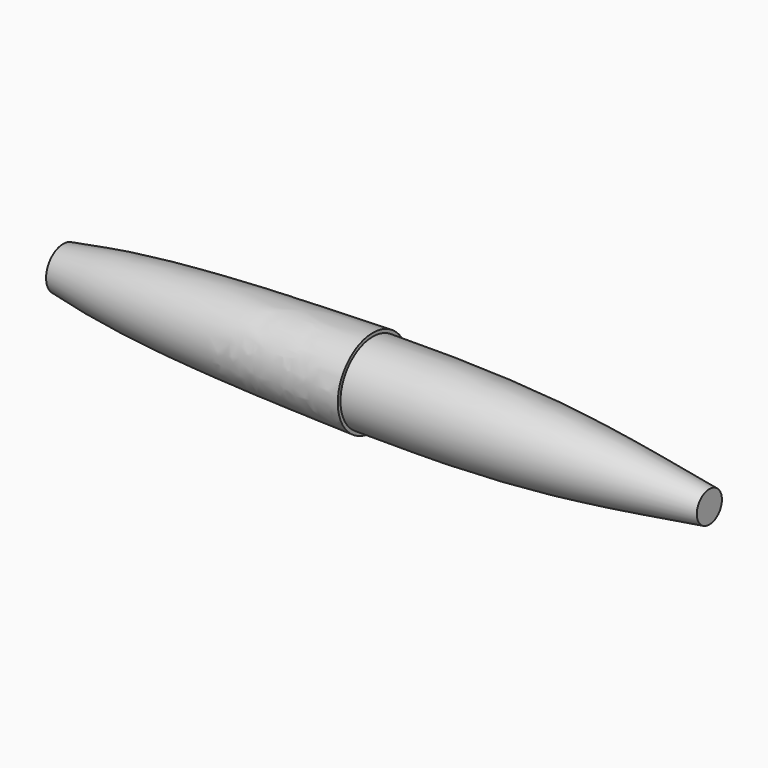
from build123d import *


with BuildPart() as f1:
    # F0 (on Front) → F1 (revolve)
    with BuildSketch(Plane.XZ):
        with BuildLine():
            Line((75, 0), (75, 3.5))
            add(Edge.make_bspline(
                [(0, 9), (36.383945, 9.474214), (51.260546, 6.885404), (75, 3.5)],
                knots=[0, 0, 0, 0, 75.201396, 75.201396, 75.201396, 75.201396], degree=3))
            Line((0, 9), (0, 0))
            Line((0, 0), (75, 0))
        make_face()
        with BuildLine():
            Line((0, 0), (0, 9))
            Line((0, 9), (0, 9.75))
            add(Edge.make_bspline(
                [(-69, 4.75), (-48.41046, 8.737227), (-24.753226, 9.07285), (0, 9.75)],
                knots=[0, 0, 0, 0, 69.180922, 69.180922, 69.180922, 69.180922], degree=3))
            Line((-69, 4.75), (-69, 0))
            Line((-69, 0), (0, 0))
        make_face()
    revolve(axis=Axis((3, 0, 0), (1, 0, 0)))


solid = f1.part
